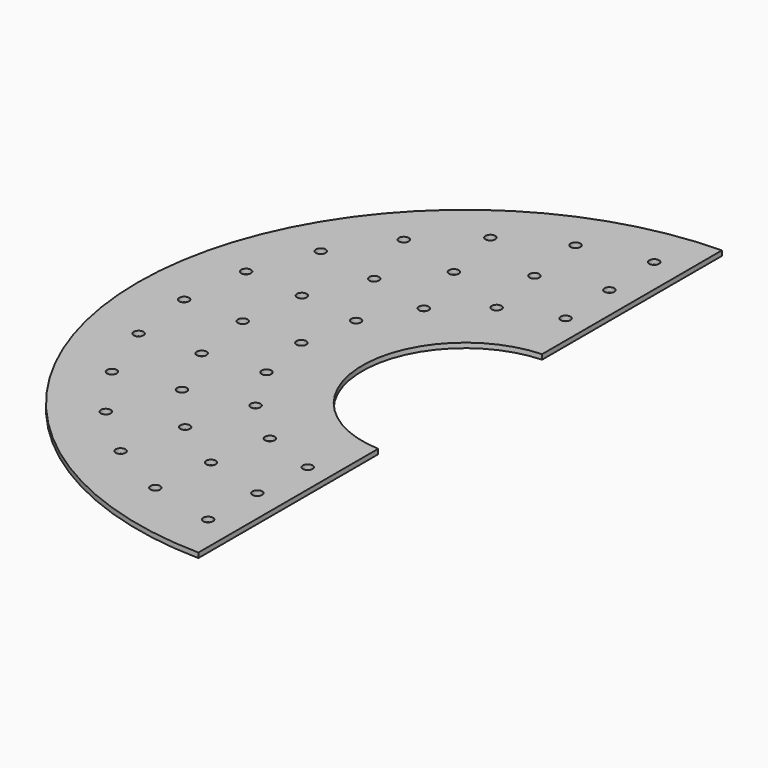
from build123d import *

# Parameters (mm, degrees)
F1_DEPTH  = 6.35
F3_DEPTH  = 6.351
F5_R      = 6.35
F6_DEPTH  = 6.351
F7_R      = 6.35
F8_DEPTH  = 6.351
F9_R      = 6.35
F10_DEPTH = 6.351
F11_W     = 6.35
F11_H     = 938.325346
F12_DEPTH = 6.351


with BuildPart() as f1:
    # F0 (on Top) → F1 (new body)
    with BuildSketch(Plane.XY):
        with BuildLine():
            ThreePointArc((0, 133.35), (94.292689, 94.292689), (133.35, 0))
            ThreePointArc((133.35, 0), (94.292689, -94.292689), (0, -133.35))
            Line((0, -133.35), (0, -425.45))
            ThreePointArc((0, -425.45), (300.83858, -300.83858), (425.45, 0))
            ThreePointArc((425.45, 0), (300.83858, 300.83858), (0, 425.45))
            Line((0, 425.45), (0, 133.35))
        make_face()
        with BuildLine():
            ThreePointArc((0, -133.35), (-133.35, 0), (0, 133.35))
            Line((0, 133.35), (0, 425.45))
            ThreePointArc((0, 425.45), (-425.45, 0), (0, -425.45))
            Line((0, -425.45), (0, -133.35))
        make_face()
    extrude(amount=F1_DEPTH)

    # F2 (on face) → F3 (cut, through all)
    with BuildSketch(Plane.XY.offset(6.35)):
        with BuildLine():
            Line((0, 425.45), (0, 133.35))
            ThreePointArc((0, 133.35), (133.35, 0), (0, -133.35))
            Line((0, -133.35), (0, -425.45))
            ThreePointArc((0, -425.45), (425.45, 0), (0, 425.45))
        make_face()
    extrude(amount=-F3_DEPTH, mode=Mode.SUBTRACT)

    # F5 (on face) → F6 (cut, through all)
    with BuildSketch(Plane.XY.offset(6.35)):
        with Locations((-288.925, 0)):
            Circle(F5_R)
        with Locations((-277.221507, -81.399579)):
            Circle(F5_R)
        with Locations((-243.059177, -156.204648)):
            Circle(F5_R)
        with Locations((-189.205638, -218.354946)):
            Circle(F5_R)
        with Locations((-120.023783, -262.815424)):
            Circle(F5_R)
        with Locations((-41.118315, -285.98416)):
            Circle(F5_R)
        with Locations((41.118315, -285.98416)):
            Circle(F5_R)
        with Locations((120.023783, -262.815424)):
            Circle(F5_R)
        with Locations((189.205638, -218.354946)):
            Circle(F5_R)
        with Locations((243.059177, -156.204648)):
            Circle(F5_R)
        with Locations((277.221507, -81.399579)):
            Circle(F5_R)
        with Locations((288.925, 0)):
            Circle(F5_R)
        with Locations((277.221507, 81.399579)):
            Circle(F5_R)
        with Locations((243.059177, 156.204648)):
            Circle(F5_R)
        with Locations((189.205638, 218.354946)):
            Circle(F5_R)
        with Locations((120.023783, 262.815424)):
            Circle(F5_R)
        with Locations((41.118315, 285.98416)):
            Circle(F5_R)
        with Locations((-41.118315, 285.98416)):
            Circle(F5_R)
        with Locations((-120.023783, 262.815424)):
            Circle(F5_R)
        with Locations((-189.205638, 218.354946)):
            Circle(F5_R)
        with Locations((-243.059177, 156.204648)):
            Circle(F5_R)
        with Locations((-277.221507, 81.399579)):
            Circle(F5_R)
    extrude(amount=-F6_DEPTH, mode=Mode.SUBTRACT)

    # F7 (on face) → F8 (cut, through all)
    with BuildSketch(Plane.XY.offset(6.35)):
        with Locations((-212.725, 0)):
            Circle(F7_R)
        with Locations((-199.896113, -72.756235)):
            Circle(F7_R)
        with Locations((-162.956804, -136.736994)):
            Circle(F7_R)
        with Locations((-106.3625, -184.225254)):
            Circle(F7_R)
        with Locations((-36.939309, -209.493229)):
            Circle(F7_R)
        with Locations((36.939309, -209.493229)):
            Circle(F7_R)
        with Locations((106.3625, -184.225254)):
            Circle(F7_R)
        with Locations((162.956804, -136.736994)):
            Circle(F7_R)
        with Locations((199.896113, -72.756235)):
            Circle(F7_R)
        with Locations((212.725, 0)):
            Circle(F7_R)
        with Locations((199.896113, 72.756235)):
            Circle(F7_R)
        with Locations((162.956804, 136.736994)):
            Circle(F7_R)
        with Locations((106.3625, 184.225254)):
            Circle(F7_R)
        with Locations((36.939309, 209.493229)):
            Circle(F7_R)
        with Locations((-36.939309, 209.493229)):
            Circle(F7_R)
        with Locations((-106.3625, 184.225254)):
            Circle(F7_R)
        with Locations((-162.956804, 136.736994)):
            Circle(F7_R)
        with Locations((-199.896113, 72.756235)):
            Circle(F7_R)
    extrude(amount=-F8_DEPTH, mode=Mode.SUBTRACT)

    # F9 (on face) → F10 (cut, through all)
    with BuildSketch(Plane.XY.offset(6.35)):
        with Locations((-365.125, 0)):
            Circle(F9_R)
        with Locations((-354.515131, -87.380132)):
            Circle(F9_R)
        with Locations((-323.302131, -169.682048)):
            Circle(F9_R)
        with Locations((-273.299987, -242.122661)):
            Circle(F9_R)
        with Locations((-207.414641, -300.491984)):
            Circle(F9_R)
        with Locations((-129.475109, -341.397806)):
            Circle(F9_R)
        with Locations((-44.010955, -362.462828)):
            Circle(F9_R)
        with Locations((44.010955, -362.462828)):
            Circle(F9_R)
        with Locations((129.475109, -341.397806)):
            Circle(F9_R)
        with Locations((207.414641, -300.491984)):
            Circle(F9_R)
        with Locations((273.299987, -242.122661)):
            Circle(F9_R)
        with Locations((323.302131, -169.682048)):
            Circle(F9_R)
        with Locations((354.515131, -87.380132)):
            Circle(F9_R)
        with Locations((365.125, 0)):
            Circle(F9_R)
        with Locations((354.515131, 87.380132)):
            Circle(F9_R)
        with Locations((323.302131, 169.682048)):
            Circle(F9_R)
        with Locations((273.299987, 242.122661)):
            Circle(F9_R)
        with Locations((207.414641, 300.491984)):
            Circle(F9_R)
        with Locations((129.475109, 341.397806)):
            Circle(F9_R)
        with Locations((44.010955, 362.462828)):
            Circle(F9_R)
        with Locations((-44.010955, 362.462828)):
            Circle(F9_R)
        with Locations((-129.475109, 341.397806)):
            Circle(F9_R)
        with Locations((-207.414641, 300.491984)):
            Circle(F9_R)
        with Locations((-273.299987, 242.122661)):
            Circle(F9_R)
        with Locations((-323.302131, 169.682048)):
            Circle(F9_R)
        with Locations((-354.515131, 87.380132)):
            Circle(F9_R)
    extrude(amount=-F10_DEPTH, mode=Mode.SUBTRACT)

    # F11 (on Top) → F12 (cut, through all)
    with BuildSketch(Plane.XY):
        with Locations((-3.175, 4.51836)):
            Rectangle(F11_W, F11_H)
    extrude(amount=F12_DEPTH, mode=Mode.SUBTRACT)


solid = f1.part
